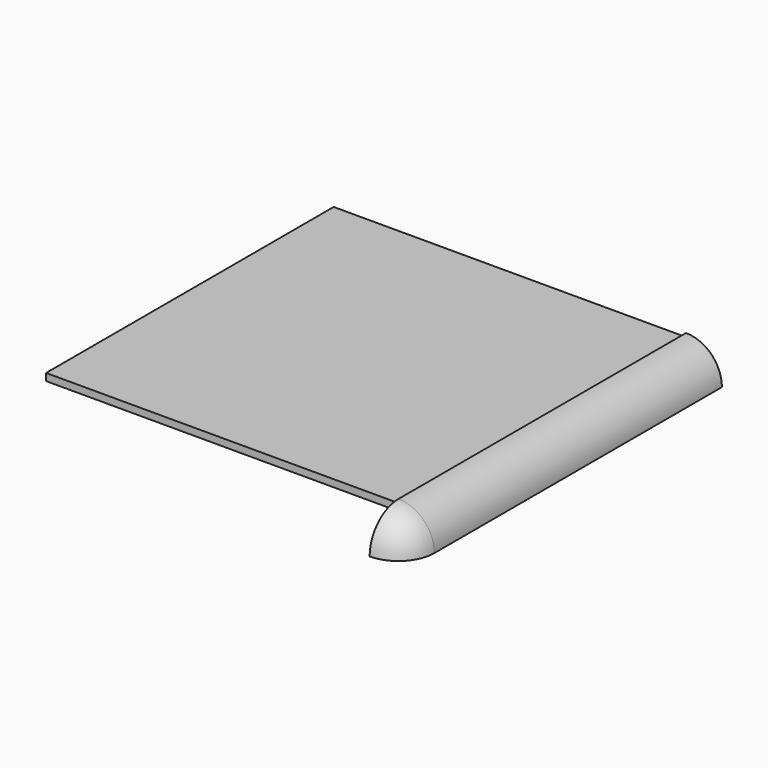
from build123d import *

# Parameters (mm, degrees)
F0_W     = 200
F0_H     = 200
F1_DEPTH = 4
F3_DEPTH = 100
F4_W     = 4
F4_H     = 4
F5_ANGLE = 90
F6_W     = 4
F6_H     = 4
F8_W     = 4
F8_H     = 4


with BuildPart() as f1:
    # F0 (on Top) → F1 (new body)
    with BuildSketch(Plane.XY):
        Rectangle(F0_W, F0_H)
    extrude(amount=F1_DEPTH)


with BuildPart() as f3:
    # F2 (on Front) → F3 (new body, symmetric)
    with BuildSketch(Plane.XZ):
        with BuildLine():
            Line((114, -14), (116, -14))
            ThreePointArc((116, -14), (110.1421356237, 0.1421356237), (96, 6))
            Line((96, 6), (96, 4))
            Line((96, 4), (100, 4))
            Line((100, 4), (100, 0))
            Line((100, 0), (96, 0))
            Line((96, 0), (96, -2))
            ThreePointArc((96, -2), (104.4852813742, -5.5147186258), (108, -14))
            Line((108, -14), (110, -14))
            Line((110, -14), (110, -10))
            Line((110, -10), (114, -10))
            Line((114, -10), (114, -14))
        make_face()
    extrude(amount=F3_DEPTH, both=True)


with BuildPart() as f5:
    # F4 (on face) → F5 (revolve)
    with BuildSketch(Plane.XZ.offset(100)):
        with BuildLine():
            Line((114, -10), (114, -14))
            Line((114, -14), (116, -14))
            ThreePointArc((116, -14), (110.1421356237, 0.1421356237), (96, 6))
            Line((96, 6), (96, 4))
            Line((96, 4), (100, 4))
            Line((100, 4), (100, 0))
            Line((100, 0), (96, 0))
            Line((96, 0), (96, -2))
            ThreePointArc((96, -2), (104.4852813742, -5.5147186258), (108, -14))
            Line((108, -14), (110, -14))
            Line((110, -14), (110, -10))
            Line((110, -10), (114, -10))
        make_face()
        with Locations((112, -12)):
            Rectangle(F4_W, F4_H)
    revolve(axis=Axis((96, -100, 5), (0, 0, -1)), revolution_arc=F5_ANGLE)

    # F6 (on face) → F7 (revolve, cut)
    with BuildSketch(Plane(origin=(96, 0, 0), x_dir=(0, -1, 0), z_dir=(-1, 0, 0))):
        with Locations((116, -12)):
            Rectangle(F6_W, F6_H)
    revolve(axis=Axis((96, -113, -14), (0, 1, 0)), mode=Mode.SUBTRACT)

    # F8 (on face) → F9 (revolve, cut)
    with BuildSketch(Plane.XZ.offset(100)):
        with Locations((112, -12)):
            Rectangle(F8_W, F8_H)
    revolve(axis=Axis((109, -100, -14), (-1, 0, 0)), mode=Mode.SUBTRACT)


solid = Compound([f1.part, f3.part, f5.part])
